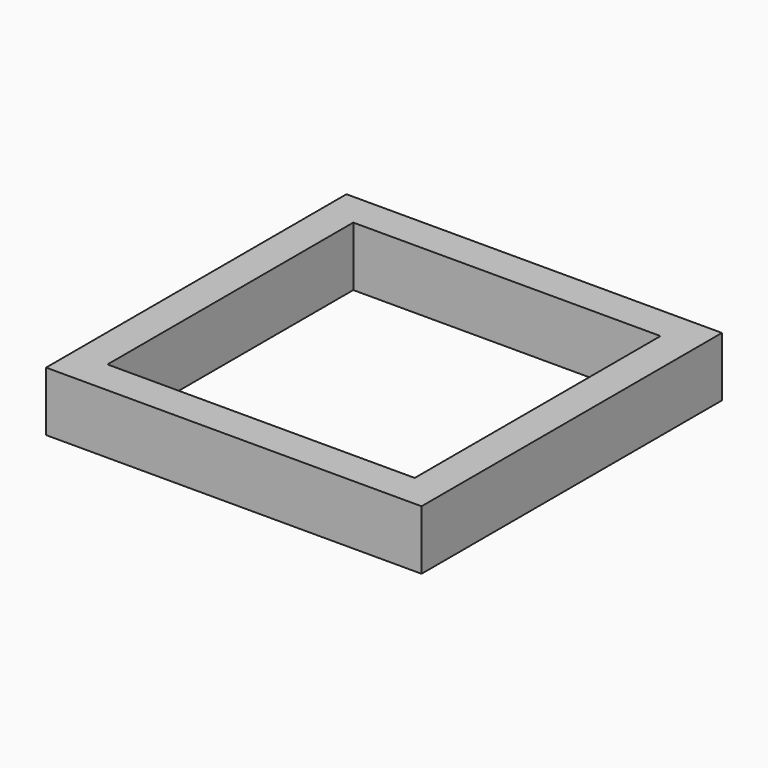
from build123d import *

# Parameters (mm, degrees)
SKETCH_W     = 42
SKETCH_H     = 42
PAD_DEPTH    = 6.65
SKETCH001_W  = 34.369492
SKETCH001_H  = 34.369492
POCKET_DEPTH = 6.651


with BuildPart() as part:
    # Sketch → Pad (new body)
    with BuildSketch(Plane.XY):
        with Locations((21, 21)):
            Rectangle(SKETCH_W, SKETCH_H)
    extrude(amount=PAD_DEPTH)

    # Sketch001 (on Face6 of Pad) → Pocket (cut, through all)
    with BuildSketch(Plane.XY.offset(6.65)):
        with Locations((21, 21)):
            Rectangle(SKETCH001_W, SKETCH001_H)
    extrude(amount=-POCKET_DEPTH, mode=Mode.SUBTRACT)


solid = part.part
